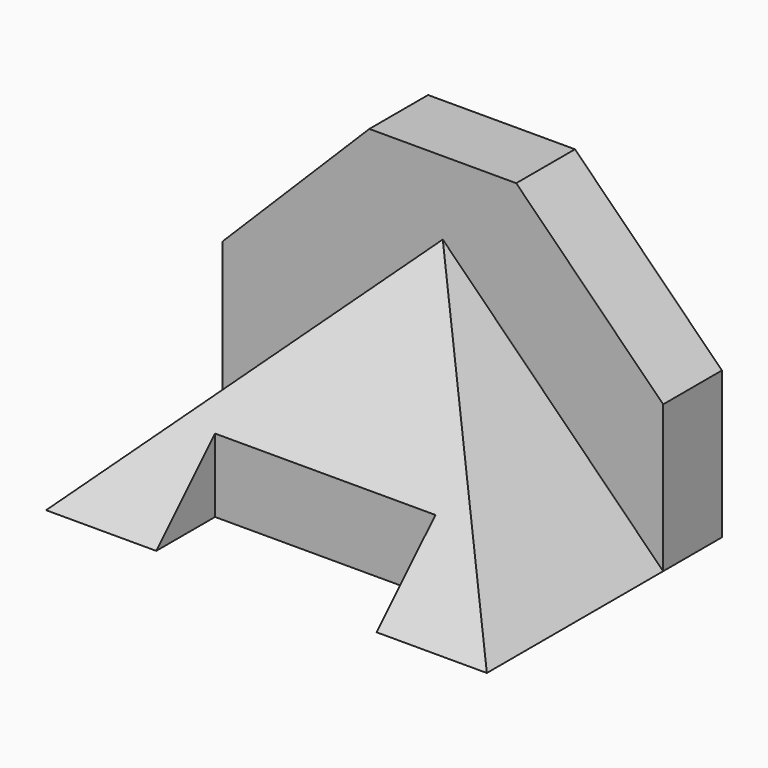
from build123d import *

# Parameters (mm, degrees)
F0_W          = 38.1
F0_H          = 12.7
F1_DEPTH      = 25.4
F2_W          = 38.1
F2_H          = 12.7
F3_DEPTH      = 50.801
F5_DEPTH      = 38.1
F7_DEPTH      = 12.7
F7_DEPTH_BACK = 25.4
F8_DEPTH      = 25.4
F8_DEPTH_BACK = 12.7


with BuildPart() as f1:
    # F0 (on Front) → F1 (new body, symmetric)
    with BuildSketch(Plane.XZ):
        Polygon((-38.1, 0), (-19.05, 0), (-19.05, 12.7), (19.05, 12.7), (19.05, 0), (38.1, 0), (0, 38.1), align=None)
        with Locations((0, 6.35)):
            Rectangle(F0_W, F0_H)
        Polygon((-38.1, 25.4), (-38.1, 0), (0, 38.1), (38.1, 0), (38.1, 25.4), (12.7, 50.8), (-12.7, 50.8), align=None)
    extrude(amount=F1_DEPTH, both=True)

    # F2 (on Top) → F3 (cut, through all)
    with BuildSketch(Plane.XY):
        with Locations((0, -19.05)):
            Rectangle(F2_W, F2_H)
    extrude(amount=F3_DEPTH, mode=Mode.SUBTRACT)

    # F4 (on Right) → F5 (cut, symmetric)
    with BuildSketch(Plane.YZ):
        Polygon((-25.4, 50.8), (-25.4, 0), (12.7, 38.1), (12.7, 50.8), align=None)
    extrude(amount=F5_DEPTH, both=True, mode=Mode.SUBTRACT)

    # F6 (on Front) → F7 (cut, two sides)
    with BuildSketch(Plane.XZ) as f7_sk:
        Polygon((-38.1, 0), (0, 38.1), (-25.4, 38.1), (-38.1, 25.4), align=None)
    extrude(amount=-F7_DEPTH, mode=Mode.SUBTRACT)
    extrude(f7_sk.sketch, amount=F7_DEPTH_BACK, mode=Mode.SUBTRACT)

    # F6 (on Front) → F8 (cut, two sides)
    with BuildSketch(Plane.XZ) as f8_sk:
        Polygon((0, 38.1), (38.1, 0), (38.1, 25.4), (25.4, 38.1), align=None)
    extrude(amount=F8_DEPTH, mode=Mode.SUBTRACT)
    extrude(f8_sk.sketch, amount=-F8_DEPTH_BACK, mode=Mode.SUBTRACT)


solid = f1.part
